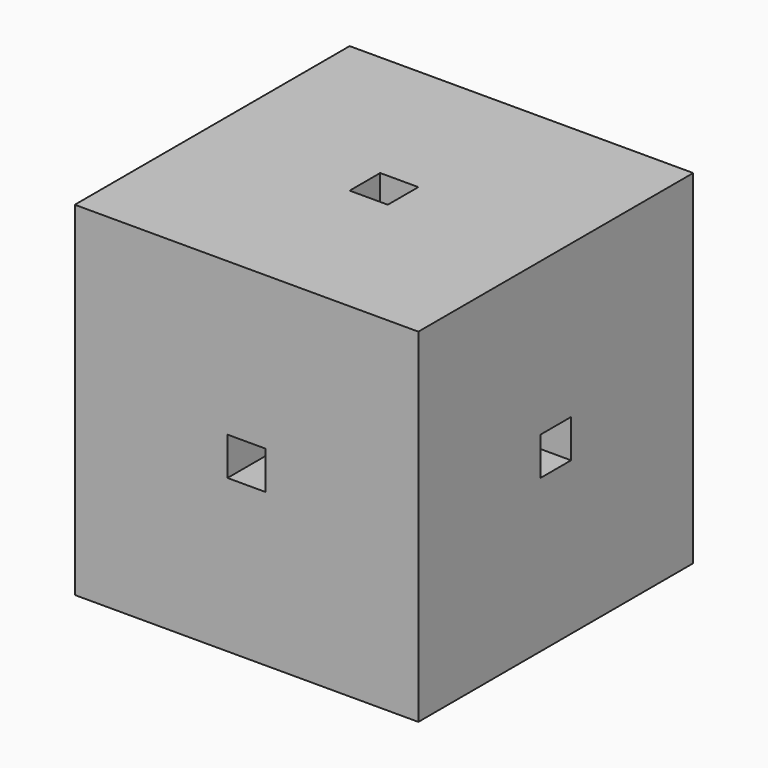
from build123d import *

# Parameters (mm, degrees)
F0_W     = 228.6
F0_H     = 228.6
F0_W_2   = 25.4
F0_H_2   = 25.4
F1_DEPTH = 114.3
F2_DEPTH = 114.3
F3_W     = 25.4
F3_H     = 25.4
F4_DEPTH = 228.6
F5_W     = 25.4
F5_H     = 25.4
F6_DEPTH = 228.6


with BuildPart() as f1:
    # F0 (on Top) → F1 (new body)
    with BuildSketch(Plane.XY):
        Rectangle(F0_W, F0_H)
        Rectangle(F0_W_2, F0_H_2, mode=Mode.SUBTRACT)
    extrude(amount=F1_DEPTH)

    # F0 (on Top) → F2 (join)
    with BuildSketch(Plane.XY):
        Rectangle(F0_W, F0_H)
        Rectangle(F0_W_2, F0_H_2, mode=Mode.SUBTRACT)
    extrude(amount=-F2_DEPTH)

    # F3 (on face) → F4 (cut)
    with BuildSketch(Plane.XZ.offset(114.3)):
        Rectangle(F3_W, F3_H)
    extrude(amount=-F4_DEPTH, mode=Mode.SUBTRACT)

    # F5 (on face) → F6 (cut)
    with BuildSketch(Plane(origin=(-114.3, 0, 0), x_dir=(0, -1, 0), z_dir=(-1, 0, 0))):
        Rectangle(F5_W, F5_H)
    extrude(amount=-F6_DEPTH, mode=Mode.SUBTRACT)


solid = f1.part
